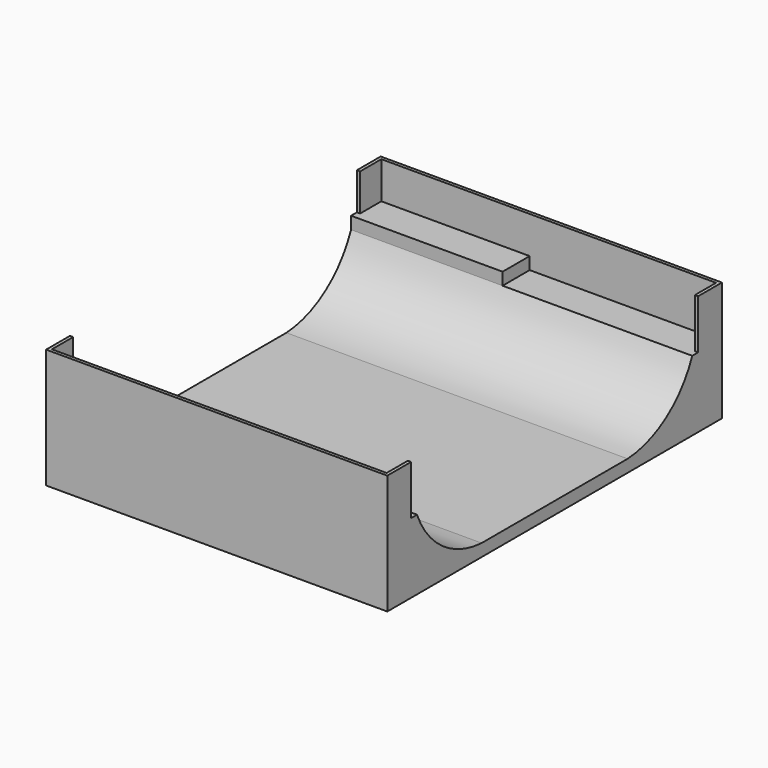
from build123d import *

# Parameters (mm, degrees)
F0_W     = 3657.6
F0_H     = 8486.2
F0_W_2   = 80
F0_H_2   = 834.4
F1_DEPTH = 2950
F2_DEPTH = 1219.2
F3_DEPTH = 914.4
F5_DEPTH = 8415.001
F4_W     = 180
F4_H     = 1219.2
F6_DEPTH = 80
F7_W     = 180
F7_H     = 914.4
F8_DEPTH = 80


with BuildPart() as f1:
    # F0 (on Top) → F1 (new body)
    with BuildSketch(Plane.XY):
        with Locations((-2298.7, 0)):
            Rectangle(F0_W, F0_H)
        with Locations((-4167.5, 0)):
            Rectangle(F0_W_2, F0_H)
        Polygon((4127.5, -4243.1), (4127.5, 4243.1), (4127.5, 5077.5), (-469.9, 5077.5), (-469.9, 4243.1), (-469.9, -4243.1), (-469.9, -5077.5), (4127.5, -5077.5), align=None)
        with Locations((4167.5, 0)):
            Rectangle(F0_W_2, F0_H)
        with Locations((-2298.7, 4660.3)):
            Rectangle(F0_W, F0_H_2)
        Polygon((4207.5, 4243.1), (4207.5, 5157.5), (-4207.5, 5157.5), (-4207.5, 4243.1), (-4127.5, 4243.1), (-4127.5, 5077.5), (-469.9, 5077.5), (4127.5, 5077.5), (4127.5, 4243.1), align=None)
        with Locations((-2298.7, -4660.3)):
            Rectangle(F0_W, F0_H_2)
        Polygon((4207.5, -5157.5), (4207.5, -4243.1), (4127.5, -4243.1), (4127.5, -5077.5), (-469.9, -5077.5), (-4127.5, -5077.5), (-4127.5, -4243.1), (-4207.5, -4243.1), (-4207.5, -5157.5), align=None)
    extrude(amount=-F1_DEPTH)

    # F0 (on Top) → F2 (cut)
    with BuildSketch(Plane.XY):
        with Locations((-4167.5, 0)):
            Rectangle(F0_W_2, F0_H)
        with Locations((-2298.7, 0)):
            Rectangle(F0_W, F0_H)
        Polygon((4127.5, -4243.1), (4127.5, 4243.1), (4127.5, 5077.5), (-469.9, 5077.5), (-469.9, 4243.1), (-469.9, -4243.1), (-469.9, -5077.5), (4127.5, -5077.5), align=None)
        with Locations((4167.5, 0)):
            Rectangle(F0_W_2, F0_H)
    extrude(amount=-F2_DEPTH, mode=Mode.SUBTRACT)

    # F0 (on Top) → F3 (cut)
    with BuildSketch(Plane.XY):
        with Locations((-2298.7, -4660.3)):
            Rectangle(F0_W, F0_H_2)
        with Locations((-2298.7, 4660.3)):
            Rectangle(F0_W, F0_H_2)
    extrude(amount=-F3_DEPTH, mode=Mode.SUBTRACT)

    # F4 (on face) → F5 (cut, through all)
    with BuildSketch(Plane.YZ.offset(4207.5)):
        with BuildLine():
            Line((4243.1, -1219.2), (-4243.1, -1219.2))
            ThreePointArc((-4243.1, -1219.2), (-3453.891453, -2221.784794), (-2250.252819, -2645.2))
            Line((-2250.252819, -2645.2), (2250.252819, -2645.2))
            ThreePointArc((2250.252819, -2645.2), (3453.891453, -2221.784794), (4243.1, -1219.2))
        make_face()
    extrude(amount=-F5_DEPTH, mode=Mode.SUBTRACT)

    # F4 (on face) → F6 (cut, through all)
    with BuildSketch(Plane.YZ.offset(4207.5)):
        with Locations((-4333.1, -609.6)):
            Rectangle(F4_W, F4_H)
        with Locations((4333.1, -609.6)):
            Rectangle(F4_W, F4_H)
    extrude(amount=-F6_DEPTH, mode=Mode.SUBTRACT)

    # F7 (on face) → F8 (cut, through all)
    with BuildSketch(Plane(origin=(-4207.5, 0, 0), x_dir=(0, -1, 0), z_dir=(-1, 0, 0))):
        with Locations((-4333.1, -457.2)):
            Rectangle(F7_W, F7_H)
        with Locations((4333.1, -457.2)):
            Rectangle(F7_W, F7_H)
    extrude(amount=-F8_DEPTH, mode=Mode.SUBTRACT)


solid = f1.part
